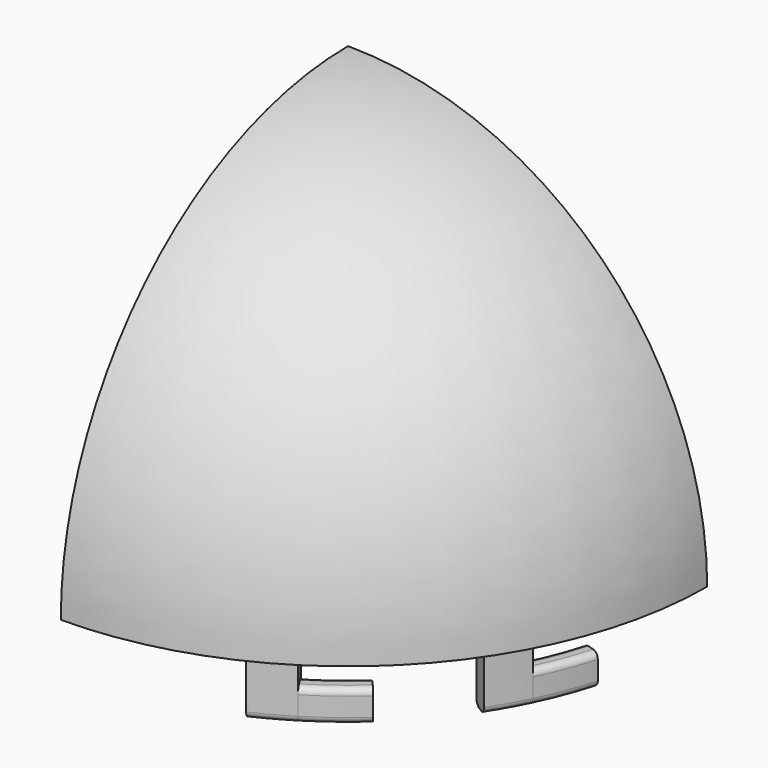
from build123d import *

# Parameters (mm, degrees)
F1_ANGLE  = 90
F3_DEPTH  = 20
F5_DEPTH  = 20
F7_DEPTH  = 20
F9_DEPTH  = 10
F11_DEPTH = 10
F12_R     = 2
F12_2_R   = 2
F12_3_R   = 2


with BuildPart() as f1:
    # F0 (on Right) → F1 (revolve)
    with BuildSketch(Plane.YZ):
        with BuildLine():
            Line((0, 94.3), (0, 114.3))
            ThreePointArc((0, 114.3), (-80.822305, 80.822305), (-114.3, 0))
            Line((-114.3, 0), (-94.3, 0))
            ThreePointArc((-94.3, 0), (-66.680169, 66.680169), (0, 94.3))
        make_face()
    revolve(axis=Axis((0, 0, 104.3), (0, 0, 1)), revolution_arc=F1_ANGLE)

    # F2 (on face) → F3 (cut)
    with BuildSketch(Plane(origin=(0, 0, 0), x_dir=(-1, 0, 0), z_dir=(0, 1, 0))):
        with BuildLine():
            Line((-26.218369, 97.848286), (-27.771284, 103.643841))
            ThreePointArc((-27.771284, 103.643841), (-75.872558, 75.872558), (-103.643841, 27.771284))
            Line((-103.643841, 27.771284), (-97.848286, 26.218369))
            ThreePointArc((-97.848286, 26.218369), (-71.629917, 71.629917), (-26.218369, 97.848286))
        make_face()
    extrude(amount=-F3_DEPTH, mode=Mode.SUBTRACT)

    # F4 (on face) → F5 (cut)
    with BuildSketch(Plane.YZ):
        with BuildLine():
            ThreePointArc((-97.848286, 26.218369), (-71.629917, 71.629917), (-26.218369, 97.848286))
            Line((-26.218369, 97.848286), (-27.771284, 103.643841))
            ThreePointArc((-27.771284, 103.643841), (-75.872558, 75.872558), (-103.643841, 27.771284))
            Line((-103.643841, 27.771284), (-97.848286, 26.218369))
        make_face()
    extrude(amount=F5_DEPTH, mode=Mode.SUBTRACT)

    # F6 (on face) → F7 (join)
    with BuildSketch(Plane(origin=(0, 0, 0), x_dir=(1, 0, 0), z_dir=(0, 0, -1))):
        with BuildLine():
            Line((45.346939, 97.246826), (42.81123, 91.808979))
            ThreePointArc((42.81123, 91.808979), (48.336182, 89.024174), (53.680821, 85.907272))
            Line((53.680821, 85.907272), (56.860337, 90.995561))
            ThreePointArc((56.860337, 90.995561), (51.199135, 94.297076), (45.346939, 97.246826))
        make_face()
        with BuildLine():
            ThreePointArc((84.957329, 55.171934), (88.167032, 49.882507), (91.047837, 44.406997))
            Line((91.047837, 44.406997), (96.440601, 47.037224))
            ThreePointArc((96.440601, 47.037224), (93.389166, 52.837048), (89.989352, 58.439768))
            Line((89.989352, 58.439768), (84.957329, 55.171934))
        make_face()
    extrude(amount=F7_DEPTH)

    # F12
    f12_edges = [f1.edges().sort_by_distance(p)[0] for p in [
        (51.199135, -94.297076, -20),
        (48.336182, -89.024174, -20),
        (88.167032, -49.882507, -20),
        (93.389166, -52.837048, -20),
    ]]
    fillet(f12_edges, radius=F12_R)


with BuildPart() as f9:
    # F8 (on face) → F9 (new body)
    with BuildSketch(Plane(origin=(0, 0, -20), x_dir=(1, 0, 0), z_dir=(0, 0, -1))):
        with BuildLine():
            ThreePointArc((53.680821, 85.907272), (60.963862, 80.901777), (67.78293, 75.280571))
            Line((67.78293, 75.280571), (71.797714, 79.73944))
            ThreePointArc((71.797714, 79.73944), (64.574752, 85.69359), (56.860337, 90.995561))
            Line((56.860337, 90.995561), (53.680821, 85.907272))
        make_face()
    extrude(amount=-F9_DEPTH)

    # F12#2
    f12_2_edges = [f9.edges().sort_by_distance(p)[0] for p in [
        (60.963862, -80.901777, -20),
        (64.574752, -85.69359, -20),
        (64.574752, -85.69359, -10),
        (60.963862, -80.901777, -10),
    ]]
    fillet(f12_2_edges, radius=F12_2_R)


with BuildPart() as f11:
    # F10 (on face) → F11 (new body)
    with BuildSketch(Plane(origin=(0, 0, -20), x_dir=(1, 0, 0), z_dir=(0, 0, -1))):
        with BuildLine():
            ThreePointArc((91.047837, 44.406997), (94.571697, 36.302673), (97.37581, 27.922064))
            Line((97.37581, 27.922064), (103.14338, 29.575888))
            ThreePointArc((103.14338, 29.575888), (100.17318, 38.452881), (96.440601, 47.037224))
            Line((96.440601, 47.037224), (91.047837, 44.406997))
        make_face()
    extrude(amount=-F11_DEPTH)

    # F12#3
    f12_3_edges = [f11.edges().sort_by_distance(p)[0] for p in [
        (94.571697, -36.302673, -20),
        (100.17318, -38.452881, -20),
        (100.17318, -38.452881, -10),
        (94.571697, -36.302673, -10),
    ]]
    fillet(f12_3_edges, radius=F12_3_R)


solid = Compound([f1.part, f9.part, f11.part])
